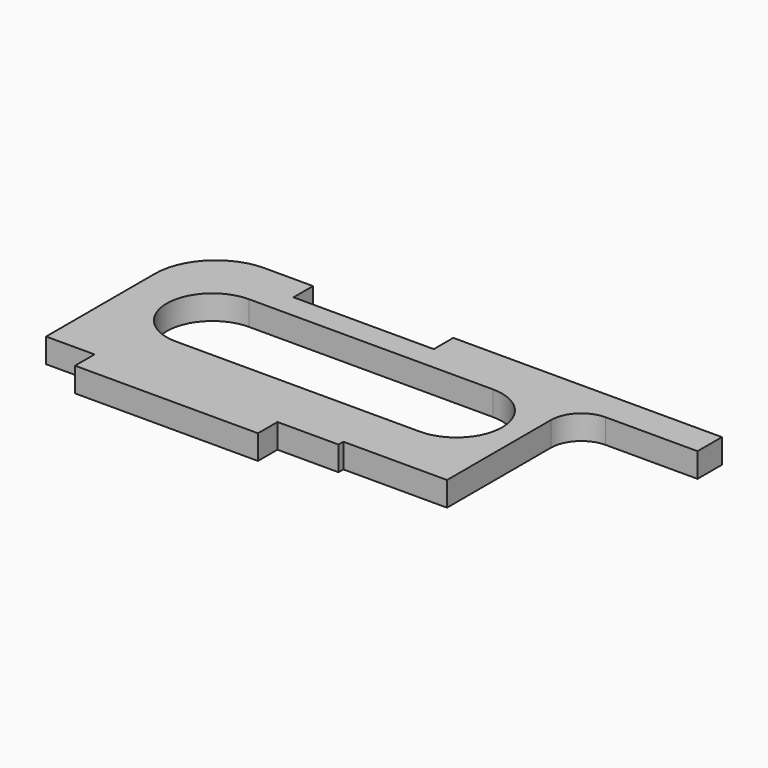
from build123d import *

# Parameters (mm, degrees)
PAD_DEPTH    = 4
SKETCH_W     = 23
SKETCH_H     = 4
POCKET_DEPTH = 5


with BuildPart() as part:
    # Sketch002 → Pad (new body)
    with BuildSketch(Plane.XY):
        with BuildLine():
            Line((65, 32.281557), (-10, 32.281557))
            ThreePointArc((-10, 32.281557), (-17.071068, 29.352625), (-20, 22.281557))
            Line((-20, 22.281557), (-20, 0))
            Line((-12.053457, 0), (-20, 0))
            Line((-12.053457, -4), (-12.053457, 0))
            Line((17.946543, -4), (-12.053457, -4))
            Line((17.946543, -4), (17.946543, 0))
            Line((27.946543, 0), (17.946543, 0))
            Line((27.946543, 0), (27.946543, 1))
            Line((27.946543, 1), (44.946543, 1))
            Line((44.946543, 1), (44.946543, 22.281557))
            ThreePointArc((49.946543, 27.281557), (46.411009, 25.817091), (44.946543, 22.281557))
            Line((49.946543, 27.281557), (65, 27.281557))
            Line((65, 27.281557), (65, 32.281557))
        make_face()
        with BuildLine():
            ThreePointArc((-6.164606, 24.307305), (-13.664606, 16.807305), (-6.164606, 9.307305))
            Line((-6.164606, 9.307305), (33.835394, 9.307305))
            ThreePointArc((33.835394, 9.307305), (41.335394, 16.807305), (33.835394, 24.307305))
            Line((33.835394, 24.307305), (-6.164606, 24.307305))
        make_face(mode=Mode.SUBTRACT)
    extrude(amount=PAD_DEPTH)

    # Sketch (on Face20 of Pad) → Pocket (cut)
    with BuildSketch(Plane.XY.offset(4)):
        with Locations((9.446543, 30.281557)):
            Rectangle(SKETCH_W, SKETCH_H)
    extrude(amount=-POCKET_DEPTH, mode=Mode.SUBTRACT)


solid = part.part
